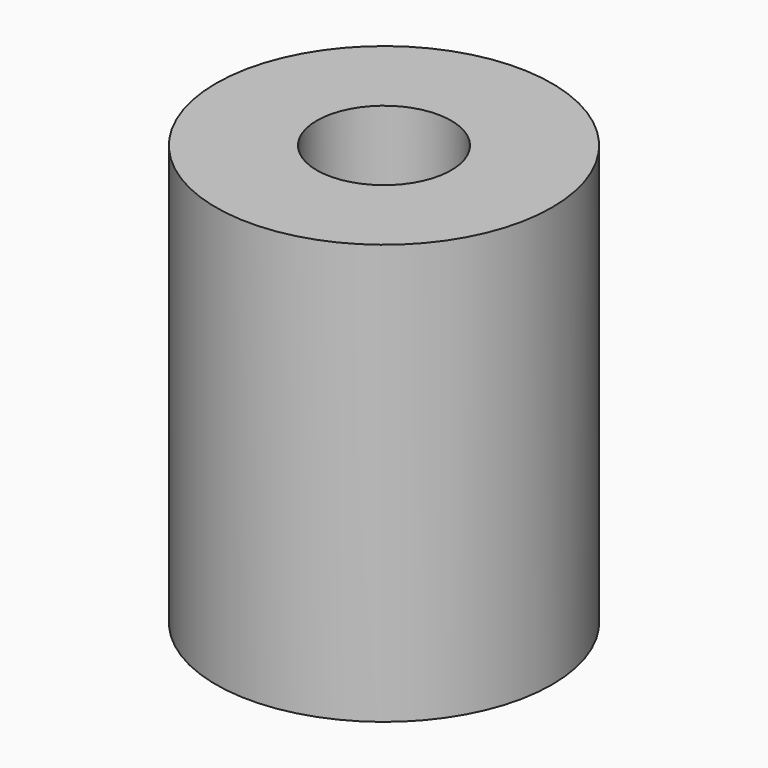
from build123d import *

# Parameters (mm, degrees)
F0_W     = 10
F0_H     = 25
F3_D     = 8
F3_DEPTH = 17
F3_TIP   = 2.4034424761
F5_D     = 5


with BuildPart() as f1:
    # F0 (on Front) → F1 (revolve)
    with BuildSketch(Plane.XZ):
        with Locations((-5, 12.5)):
            Rectangle(F0_W, F0_H)
    revolve(axis=Axis((0, 0, 12.5), (0, 0, -1)))

    # F3
    with Locations(Plane.XY.offset(25)):
        with Locations((0, 0)):
            Hole(F3_D / 2, depth=F3_DEPTH)
            with Locations((0, 0, -(F3_DEPTH + F3_TIP / 2))):  # 118° drill point
                Cone(0, F3_D / 2, F3_TIP, mode=Mode.SUBTRACT)

    # F5 (through all)
    with Locations(Plane(origin=(0, 0, 0), x_dir=(1, 0, 0), z_dir=(0, 0, -1))):
        with Locations((0, 0)):
            Hole(F5_D / 2)


solid = f1.part
